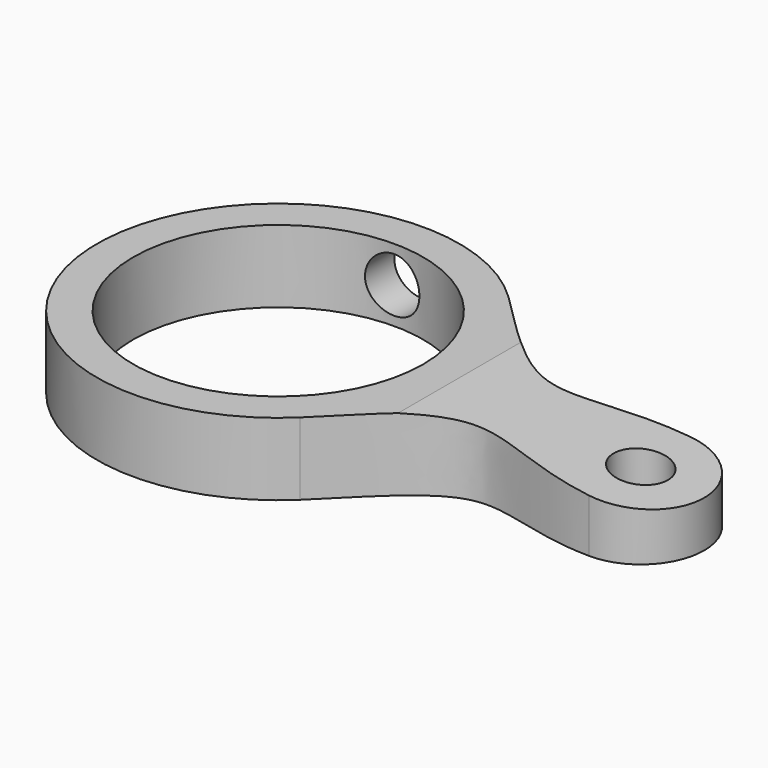
from build123d import *

# Parameters (mm, degrees)
F0_R     = 8
F0_R_2   = 1.5
F1_DEPTH = 4
F2_R     = 1.5
F3_DEPTH = 25
F5_DEPTH = 12.5


with BuildPart() as f1:
    # F0 (on Top) → F1 (new body)
    with BuildSketch(Plane.XY):
        with BuildLine():
            ThreePointArc((6.9474552963, -7.192556215), (9.2052852472, -3.9067535779), (10, 0))
            ThreePointArc((10, 0), (9.2052852472, 3.9067535779), (6.9474552963, 7.192556215))
            ThreePointArc((6.9474552963, 7.192556215), (-10, 0), (6.9474552963, -7.192556215))
        make_face()
        Circle(F0_R, mode=Mode.SUBTRACT)
        with BuildLine():
            ThreePointArc((6.9474552963, 7.192556215), (9.2052852472, 3.9067535779), (10, 0))
            ThreePointArc((10, 0), (9.2052852472, -3.9067535779), (6.9474552963, -7.192556215))
            add(Edge.make_bspline(
                [(6.9474552963, -7.192556215), (8.9911078661, -5.2185452451), (12.67340799, -0.8916241092), (16.5269435239, -3.4447773085), (19.9439029761, -3.4995504174)],
                knots=[0, 0, 0, 0, 0.5019027854, 1, 1, 1, 1], degree=3))
            ThreePointArc((19.9439029761, -3.4995504174), (16.5, 0), (19.9439029761, 3.4995504174))
            add(Edge.make_bspline(
                [(6.9474552963, 7.192556215), (8.9911078661, 5.2185452451), (12.67340799, 0.8916241092), (16.5269435239, 3.4447773085), (19.9439029761, 3.4995504174)],
                knots=[0, 0, 0, 0, 0.5019027854, 1, 1, 1, 1], degree=3))
        make_face()
        with BuildLine():
            ThreePointArc((23.5, 0), (22.4549603272, 2.4946281871), (19.9439029761, 3.4995504174))
            ThreePointArc((19.9439029761, 3.4995504174), (16.5, 0), (19.9439029761, -3.4995504174))
            ThreePointArc((19.9439029761, -3.4995504174), (22.4549603272, -2.4946281871), (23.5, 0))
        make_face()
        with Locations((20, 0)):
            Circle(F0_R_2, mode=Mode.SUBTRACT)
    extrude(amount=F1_DEPTH)

    # F2 (on Front) → F3 (cut)
    with BuildSketch(Plane.XZ):
        with Locations((0, 2)):
            Circle(F2_R)
    extrude(amount=-F3_DEPTH, mode=Mode.SUBTRACT)

    # F4 (on Front) → F5 (intersect, symmetric)
    with BuildSketch(Plane.XZ):
        Polygon((10, 4), (-10, 4), (-10, -3.1432664791), (24, -2.6836021327), (24, 2.5), align=None)
    extrude(amount=F5_DEPTH, both=True, mode=Mode.INTERSECT)


solid = f1.part
